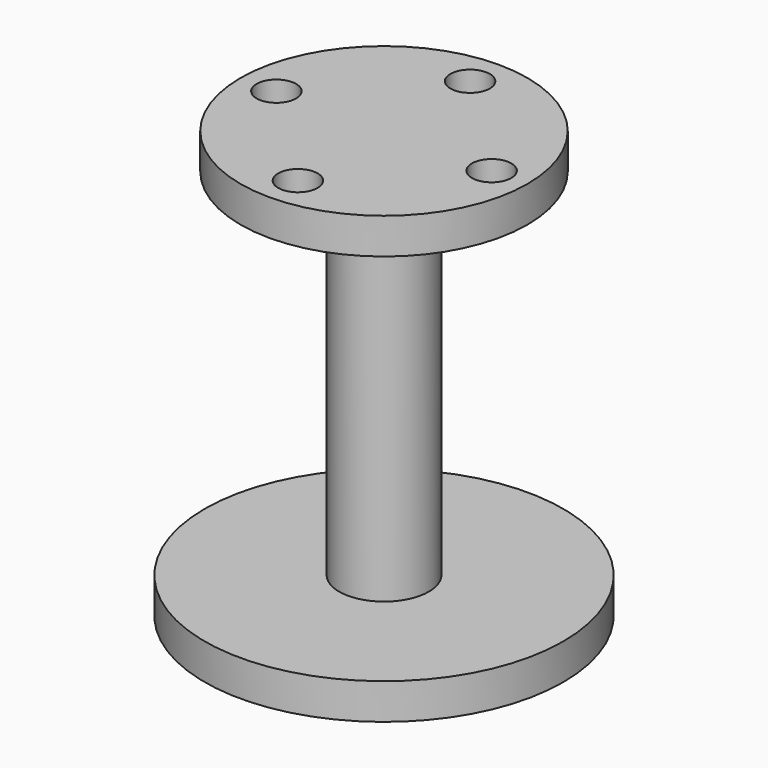
from build123d import *

# Parameters (mm, degrees)
F0_R     = 25
F1_DEPTH = 5
F2_R     = 6.25
F3_DEPTH = 49.5
F4_R     = 20
F5_DEPTH = 5
F6_R     = 2.75
F7_DEPTH = 5


with BuildPart() as f1:
    # F0 (on Top) → F1 (new body)
    with BuildSketch(Plane.XY):
        Circle(F0_R)
    extrude(amount=F1_DEPTH)

    # F2 (on face) → F3 (join)
    with BuildSketch(Plane.XY.offset(5)):
        Circle(F2_R)
    extrude(amount=F3_DEPTH)

    # F4 (on face) → F5 (join)
    with BuildSketch(Plane.XY.offset(54.5)):
        Circle(F4_R)
    extrude(amount=F5_DEPTH)

    # F6 (on face) → F7 (cut)
    with BuildSketch(Plane.XY.offset(59.5)):
        with Locations((0, 15)):
            Circle(F6_R)
        with Locations((15, 0)):
            Circle(F6_R)
        with Locations((0, -15)):
            Circle(F6_R)
        with Locations((-15, 0)):
            Circle(F6_R)
    extrude(amount=-F7_DEPTH, mode=Mode.SUBTRACT)


solid = f1.part
